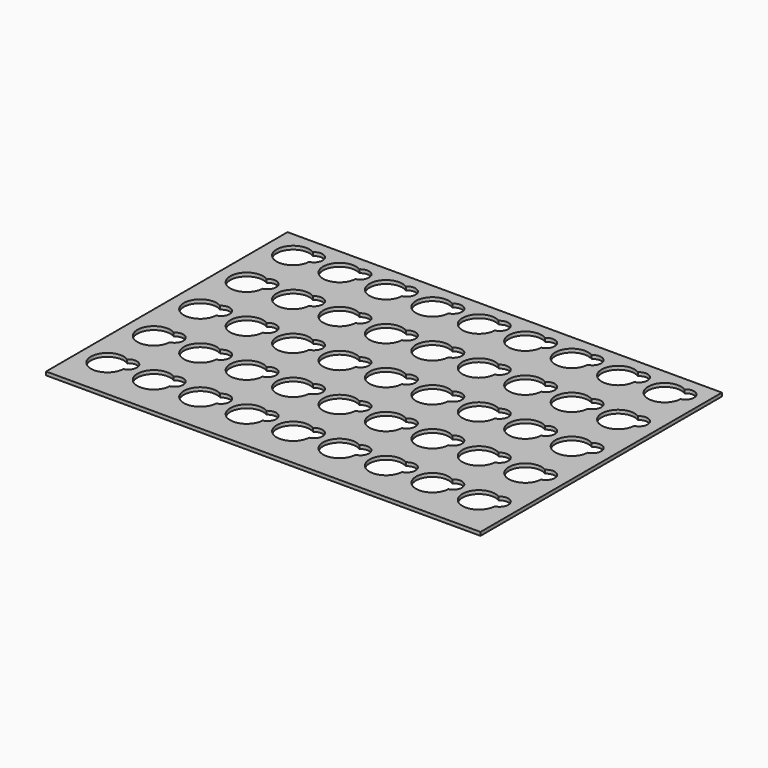
from build123d import *

# Parameters (mm, degrees)
F0_W     = 374.219984
F0_H     = 260
F1_DEPTH = 3


with BuildPart() as f1:
    # F0 (on Top) → F1 (new body)
    with BuildSketch(Plane.XY):
        with Locations((162.909992, -105.8)):
            Rectangle(F0_W, F0_H)
        with BuildLine():
            ThreePointArc((14.186787, -200.612439), (-12.519984, -206.7), (7.360575, -187.856609))
            ThreePointArc((7.360575, -187.856609), (19.132652, -189.761268), (14.186787, -200.612439))
        make_face(mode=Mode.SUBTRACT)
        with BuildLine():
            ThreePointArc((54.186787, -200.612439), (27.480016, -206.7), (47.360575, -187.856609))
            ThreePointArc((47.360575, -187.856609), (59.132652, -189.761268), (54.186787, -200.612439))
        make_face(mode=Mode.SUBTRACT)
        with BuildLine():
            ThreePointArc((94.186787, -200.612439), (67.480016, -206.7), (87.360575, -187.856609))
            ThreePointArc((87.360575, -187.856609), (99.132652, -189.761268), (94.186787, -200.612439))
        make_face(mode=Mode.SUBTRACT)
        with BuildLine():
            ThreePointArc((134.186787, -200.612439), (107.480016, -206.7), (127.360575, -187.856609))
            ThreePointArc((127.360575, -187.856609), (139.132652, -189.761268), (134.186787, -200.612439))
        make_face(mode=Mode.SUBTRACT)
        with BuildLine():
            ThreePointArc((174.186787, -200.612439), (147.480016, -206.7), (167.360575, -187.856609))
            ThreePointArc((167.360575, -187.856609), (179.132652, -189.761268), (174.186787, -200.612439))
        make_face(mode=Mode.SUBTRACT)
        with BuildLine():
            ThreePointArc((214.186787, -200.612439), (187.480016, -206.7), (207.360575, -187.856609))
            ThreePointArc((207.360575, -187.856609), (219.132652, -189.761268), (214.186787, -200.612439))
        make_face(mode=Mode.SUBTRACT)
        with BuildLine():
            ThreePointArc((14.186787, -150.612439), (-12.519984, -156.7), (7.360575, -137.856609))
            ThreePointArc((7.360575, -137.856609), (19.132652, -139.761268), (14.186787, -150.612439))
        make_face(mode=Mode.SUBTRACT)
        with BuildLine():
            ThreePointArc((54.186787, -150.612439), (27.480016, -156.7), (47.360575, -137.856609))
            ThreePointArc((47.360575, -137.856609), (59.132652, -139.761268), (54.186787, -150.612439))
        make_face(mode=Mode.SUBTRACT)
        with BuildLine():
            ThreePointArc((94.186787, -150.612439), (67.480016, -156.7), (87.360575, -137.856609))
            ThreePointArc((87.360575, -137.856609), (99.132652, -139.761268), (94.186787, -150.612439))
        make_face(mode=Mode.SUBTRACT)
        with BuildLine():
            ThreePointArc((134.186787, -150.612439), (107.480016, -156.7), (127.360575, -137.856609))
            ThreePointArc((127.360575, -137.856609), (139.132652, -139.761268), (134.186787, -150.612439))
        make_face(mode=Mode.SUBTRACT)
        with BuildLine():
            ThreePointArc((174.186787, -150.612439), (147.480016, -156.7), (167.360575, -137.856609))
            ThreePointArc((167.360575, -137.856609), (179.132652, -139.761268), (174.186787, -150.612439))
        make_face(mode=Mode.SUBTRACT)
        with BuildLine():
            ThreePointArc((214.186787, -150.612439), (187.480016, -156.7), (207.360575, -137.856609))
            ThreePointArc((207.360575, -137.856609), (219.132652, -139.761268), (214.186787, -150.612439))
        make_face(mode=Mode.SUBTRACT)
        with BuildLine():
            ThreePointArc((254.186787, -200.612439), (227.480016, -206.7), (247.360575, -187.856609))
            ThreePointArc((247.360575, -187.856609), (259.132652, -189.761268), (254.186787, -200.612439))
        make_face(mode=Mode.SUBTRACT)
        with BuildLine():
            ThreePointArc((294.186787, -200.612439), (267.480016, -206.7), (287.360575, -187.856609))
            ThreePointArc((287.360575, -187.856609), (299.132652, -189.761268), (294.186787, -200.612439))
        make_face(mode=Mode.SUBTRACT)
        with BuildLine():
            ThreePointArc((334.186787, -200.612439), (307.480016, -206.7), (327.360575, -187.856609))
            ThreePointArc((327.360575, -187.856609), (339.132652, -189.761268), (334.186787, -200.612439))
        make_face(mode=Mode.SUBTRACT)
        with BuildLine():
            ThreePointArc((254.186787, -150.612439), (227.480016, -156.7), (247.360575, -137.856609))
            ThreePointArc((247.360575, -137.856609), (259.132652, -139.761268), (254.186787, -150.612439))
        make_face(mode=Mode.SUBTRACT)
        with BuildLine():
            ThreePointArc((294.186787, -150.612439), (267.480016, -156.7), (287.360575, -137.856609))
            ThreePointArc((287.360575, -137.856609), (299.132652, -139.761268), (294.186787, -150.612439))
        make_face(mode=Mode.SUBTRACT)
        with BuildLine():
            ThreePointArc((334.186787, -150.612439), (307.480016, -156.7), (327.360575, -137.856609))
            ThreePointArc((327.360575, -137.856609), (339.132652, -139.761268), (334.186787, -150.612439))
        make_face(mode=Mode.SUBTRACT)
        with BuildLine():
            ThreePointArc((14.186787, -100.612439), (-12.519984, -106.7), (7.360575, -87.856609))
            ThreePointArc((7.360575, -87.856609), (19.132652, -89.761268), (14.186787, -100.612439))
        make_face(mode=Mode.SUBTRACT)
        with BuildLine():
            ThreePointArc((54.186787, -100.612439), (27.480016, -106.7), (47.360575, -87.856609))
            ThreePointArc((47.360575, -87.856609), (59.132652, -89.761268), (54.186787, -100.612439))
        make_face(mode=Mode.SUBTRACT)
        with BuildLine():
            ThreePointArc((94.186787, -100.612439), (67.480016, -106.7), (87.360575, -87.856609))
            ThreePointArc((87.360575, -87.856609), (99.132652, -89.761268), (94.186787, -100.612439))
        make_face(mode=Mode.SUBTRACT)
        with BuildLine():
            ThreePointArc((14.186787, -50.612439), (-12.519984, -56.7), (7.360575, -37.856609))
            ThreePointArc((7.360575, -37.856609), (19.132652, -39.761268), (14.186787, -50.612439))
        make_face(mode=Mode.SUBTRACT)
        with BuildLine():
            ThreePointArc((54.186787, -50.612439), (27.480016, -56.7), (47.360575, -37.856609))
            ThreePointArc((47.360575, -37.856609), (59.132652, -39.761268), (54.186787, -50.612439))
        make_face(mode=Mode.SUBTRACT)
        with BuildLine():
            ThreePointArc((94.186787, -50.612439), (67.480016, -56.7), (87.360575, -37.856609))
            ThreePointArc((87.360575, -37.856609), (99.132652, -39.761268), (94.186787, -50.612439))
        make_face(mode=Mode.SUBTRACT)
        with BuildLine():
            ThreePointArc((134.186787, -100.612439), (107.480016, -106.7), (127.360575, -87.856609))
            ThreePointArc((127.360575, -87.856609), (139.132652, -89.761268), (134.186787, -100.612439))
        make_face(mode=Mode.SUBTRACT)
        with BuildLine():
            ThreePointArc((174.186787, -100.612439), (147.480016, -106.7), (167.360575, -87.856609))
            ThreePointArc((167.360575, -87.856609), (179.132652, -89.761268), (174.186787, -100.612439))
        make_face(mode=Mode.SUBTRACT)
        with BuildLine():
            ThreePointArc((214.186787, -100.612439), (187.480016, -106.7), (207.360575, -87.856609))
            ThreePointArc((207.360575, -87.856609), (219.132652, -89.761268), (214.186787, -100.612439))
        make_face(mode=Mode.SUBTRACT)
        with BuildLine():
            ThreePointArc((134.186787, -50.612439), (107.480016, -56.7), (127.360575, -37.856609))
            ThreePointArc((127.360575, -37.856609), (139.132652, -39.761268), (134.186787, -50.612439))
        make_face(mode=Mode.SUBTRACT)
        with BuildLine():
            ThreePointArc((174.186787, -50.612439), (147.480016, -56.7), (167.360575, -37.856609))
            ThreePointArc((167.360575, -37.856609), (179.132652, -39.761268), (174.186787, -50.612439))
        make_face(mode=Mode.SUBTRACT)
        with BuildLine():
            ThreePointArc((214.186787, -50.612439), (187.480016, -56.7), (207.360575, -37.856609))
            ThreePointArc((207.360575, -37.856609), (219.132652, -39.761268), (214.186787, -50.612439))
        make_face(mode=Mode.SUBTRACT)
        with BuildLine():
            ThreePointArc((14.186787, -0.612439), (-12.519984, -6.7), (7.360575, 12.143391))
            ThreePointArc((7.360575, 12.143391), (19.132652, 10.238732), (14.186787, -0.612439))
        make_face(mode=Mode.SUBTRACT)
        with BuildLine():
            ThreePointArc((54.186787, -0.612439), (27.480016, -6.7), (47.360575, 12.143391))
            ThreePointArc((47.360575, 12.143391), (59.132652, 10.238732), (54.186787, -0.612439))
        make_face(mode=Mode.SUBTRACT)
        with BuildLine():
            ThreePointArc((94.186787, -0.612439), (67.480016, -6.7), (87.360575, 12.143391))
            ThreePointArc((87.360575, 12.143391), (99.132652, 10.238732), (94.186787, -0.612439))
        make_face(mode=Mode.SUBTRACT)
        with BuildLine():
            ThreePointArc((134.186787, -0.612439), (107.480016, -6.7), (127.360575, 12.143391))
            ThreePointArc((127.360575, 12.143391), (139.132652, 10.238732), (134.186787, -0.612439))
        make_face(mode=Mode.SUBTRACT)
        with BuildLine():
            ThreePointArc((174.186787, -0.612439), (147.480016, -6.7), (167.360575, 12.143391))
            ThreePointArc((167.360575, 12.143391), (179.132652, 10.238732), (174.186787, -0.612439))
        make_face(mode=Mode.SUBTRACT)
        with BuildLine():
            ThreePointArc((214.186787, -0.612439), (187.480016, -6.7), (207.360575, 12.143391))
            ThreePointArc((207.360575, 12.143391), (219.132652, 10.238732), (214.186787, -0.612439))
        make_face(mode=Mode.SUBTRACT)
        with BuildLine():
            ThreePointArc((254.186787, -100.612439), (227.480016, -106.7), (247.360575, -87.856609))
            ThreePointArc((247.360575, -87.856609), (259.132652, -89.761268), (254.186787, -100.612439))
        make_face(mode=Mode.SUBTRACT)
        with BuildLine():
            ThreePointArc((294.186787, -100.612439), (267.480016, -106.7), (287.360575, -87.856609))
            ThreePointArc((287.360575, -87.856609), (299.132652, -89.761268), (294.186787, -100.612439))
        make_face(mode=Mode.SUBTRACT)
        with BuildLine():
            ThreePointArc((334.186787, -100.612439), (307.480016, -106.7), (327.360575, -87.856609))
            ThreePointArc((327.360575, -87.856609), (339.132652, -89.761268), (334.186787, -100.612439))
        make_face(mode=Mode.SUBTRACT)
        with BuildLine():
            ThreePointArc((254.186787, -50.612439), (227.480016, -56.7), (247.360575, -37.856609))
            ThreePointArc((247.360575, -37.856609), (259.132652, -39.761268), (254.186787, -50.612439))
        make_face(mode=Mode.SUBTRACT)
        with BuildLine():
            ThreePointArc((294.186787, -50.612439), (267.480016, -56.7), (287.360575, -37.856609))
            ThreePointArc((287.360575, -37.856609), (299.132652, -39.761268), (294.186787, -50.612439))
        make_face(mode=Mode.SUBTRACT)
        with BuildLine():
            ThreePointArc((334.186787, -50.612439), (307.480016, -56.7), (327.360575, -37.856609))
            ThreePointArc((327.360575, -37.856609), (339.132652, -39.761268), (334.186787, -50.612439))
        make_face(mode=Mode.SUBTRACT)
        with BuildLine():
            ThreePointArc((254.186787, -0.612439), (227.480016, -6.7), (247.360575, 12.143391))
            ThreePointArc((247.360575, 12.143391), (259.132652, 10.238732), (254.186787, -0.612439))
        make_face(mode=Mode.SUBTRACT)
        with BuildLine():
            ThreePointArc((294.186787, -0.612439), (267.480016, -6.7), (287.360575, 12.143391))
            ThreePointArc((287.360575, 12.143391), (299.132652, 10.238732), (294.186787, -0.612439))
        make_face(mode=Mode.SUBTRACT)
        with BuildLine():
            ThreePointArc((334.186787, -0.612439), (307.480016, -6.7), (327.360575, 12.143391))
            ThreePointArc((327.360575, 12.143391), (339.132652, 10.238732), (334.186787, -0.612439))
        make_face(mode=Mode.SUBTRACT)
    extrude(amount=F1_DEPTH)


solid = f1.part
